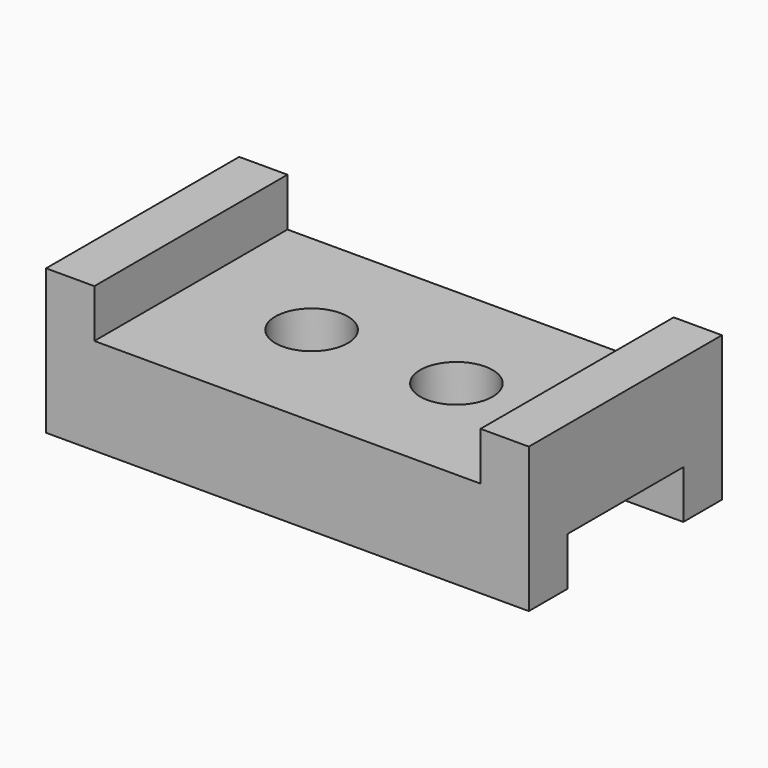
from build123d import *

# Parameters (mm, degrees)
F0_W     = 127
F0_H     = 63.5
F1_DEPTH = 38.1
F2_W     = 101.6
F2_H     = 12.7
F3_DEPTH = 66.04
F4_R     = 9.525
F5_DEPTH = 50.8
F6_W     = 38.1
F6_H     = 12.7
F7_DEPTH = 152.4


with BuildPart() as f1:
    # F0 (on Top) → F1 (new body)
    with BuildSketch(Plane.XY):
        with Locations((-63.5, -31.75)):
            Rectangle(F0_W, F0_H)
    extrude(amount=F1_DEPTH)

    # F2 (on face) → F3 (cut)
    with BuildSketch(Plane.XZ.offset(63.5)):
        with Locations((-63.5, 31.75)):
            Rectangle(F2_W, F2_H)
    extrude(amount=-F3_DEPTH, mode=Mode.SUBTRACT)

    # F4 (on face) → F5 (cut)
    with BuildSketch(Plane.XY.offset(25.4)):
        with Locations((-82.55, -31.75)):
            Circle(F4_R)
        with Locations((-44.45, -31.75)):
            Circle(F4_R)
    extrude(amount=-F5_DEPTH, mode=Mode.SUBTRACT)

    # F6 (on face) → F7 (cut)
    with BuildSketch(Plane.YZ):
        with Locations((-31.75, 6.35)):
            Rectangle(F6_W, F6_H)
    extrude(amount=-F7_DEPTH, mode=Mode.SUBTRACT)


solid = f1.part
